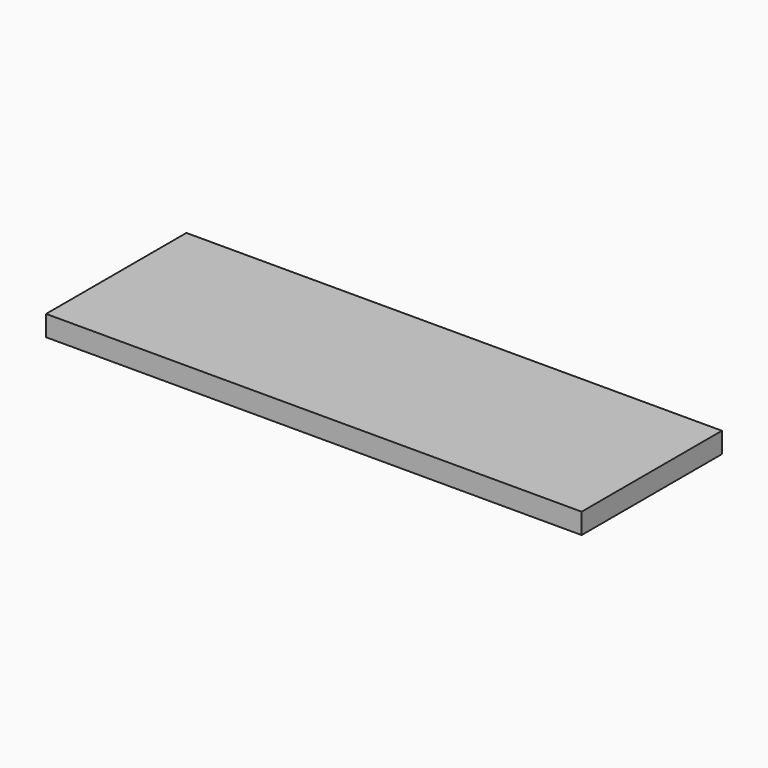
from build123d import *

# Parameters (mm, degrees)
F1_DEPTH = 1.95


with BuildPart() as f1:
    # F0 (on Top) → F1 (new body, symmetric)
    with BuildSketch(Plane.XY):
        Polygon((50.7, 16.6), (0, 16.6), (-50.7, 16.6), (-50.7, 0), (-50.7, -16.6), (0, -16.6), (50.7, -16.6), (50.7, 0), align=None)
    extrude(amount=F1_DEPTH, both=True)


solid = f1.part
